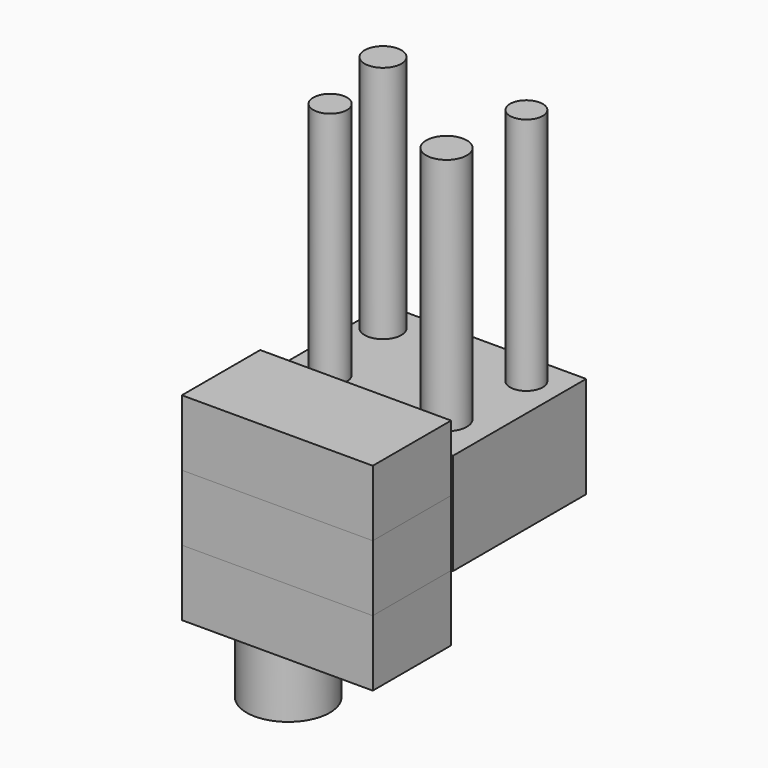
from build123d import *

# Parameters (mm, degrees)
F0_W      = 64.072139
F0_H      = 39.1015
F1_DEPTH  = 77.216
F2_W      = 73.471168
F2_H      = 37.676289
F3_DEPTH  = 25.4
F3_FACE_W = 73.471168
F3_FACE_H = 37.67629
F4_DEPTH  = 25.4
F4_FACE_W = 73.471168
F4_FACE_H = 37.67629
F5_DEPTH  = 25.4
F6_R      = 7.073069
F6_R_2    = 6.297269
F6_R_3    = 6.490153
F6_R_4    = 7.840255
F7_DEPTH  = 91.948
F8_R      = 16.020888
F9_DEPTH  = 25.4


with BuildPart() as f1:
    # F0 (on Right) → F1 (new body)
    with BuildSketch(Plane.YZ):
        with Locations((-19.602906, 33.263037)):
            Rectangle(F0_W, F0_H)
    extrude(amount=F1_DEPTH)

    # F6 (on face) → F7 (join)
    with BuildSketch(Plane.XY.offset(52.813787)):
        with Locations((8.99431, 0)):
            Circle(F6_R)
        with Locations((64.165466, 0)):
            Circle(F6_R_2)
        with Locations((15.610009, -33.7203)):
            Circle(F6_R_3)
        with Locations((60.865443, -34.290507)):
            Circle(F6_R_4)
    extrude(amount=F7_DEPTH)


with BuildPart() as f3:
    # F2 (on face) → F3 (new body)
    with BuildSketch(Plane(origin=(0, 0, 13.712287), x_dir=(1, 0, 0), z_dir=(0, 0, -1))):
        with Locations((39.768065, 70.47712)):
            Rectangle(F2_W, F2_H)
    extrude(amount=F3_DEPTH)

    # F8 (on face) → F9 (join)
    with BuildSketch(Plane(origin=(0, 0, -11.687713), x_dir=(1, 0, 0), z_dir=(0, 0, -1))):
        with Locations((28.887536, 70.477121)):
            Circle(F8_R)
    extrude(amount=F9_DEPTH)


with BuildPart() as f4:
    # F3_face (on face) → F4 (new body)
    with BuildSketch(Plane(origin=(39.768065, -70.477121, 13.712287), x_dir=(1, 0, 0), z_dir=(0, 0, 1))):
        Rectangle(F3_FACE_W, F3_FACE_H)
    extrude(amount=F4_DEPTH)


with BuildPart() as f5:
    # F4_face (on face) → F5 (new body)
    with BuildSketch(Plane(origin=(39.768065, -70.477121, 39.112287), x_dir=(1, 0, 0), z_dir=(0, 0, 1))):
        Rectangle(F4_FACE_W, F4_FACE_H)
    extrude(amount=F5_DEPTH)


solid = Compound([f1.part, f3.part, f4.part, f5.part])
